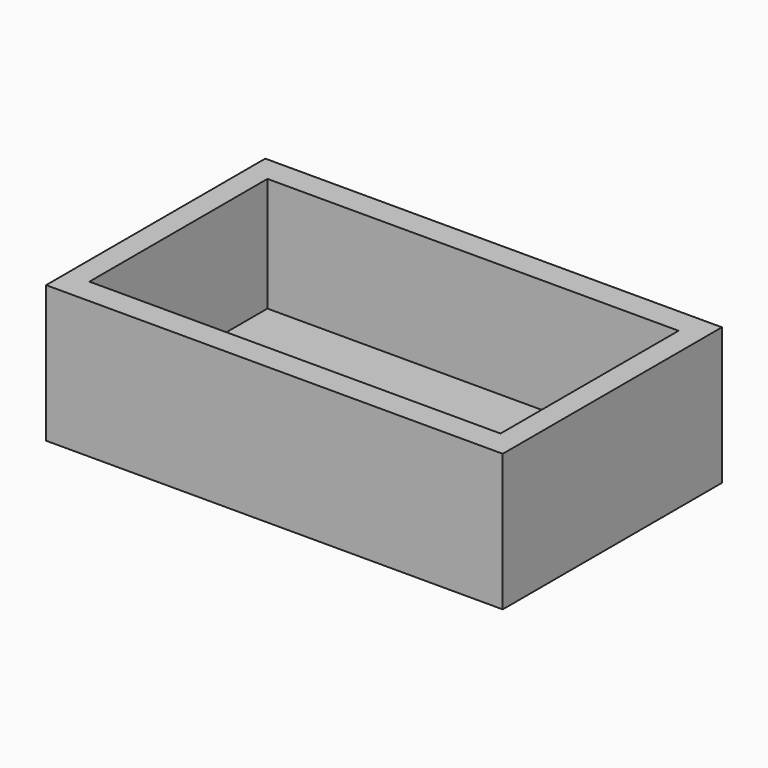
from build123d import *

# Parameters (mm, degrees)
F0_W     = 254
F0_H     = 152.4
F1_DEPTH = 38.1
F2_W     = 228.6844402552
F2_H     = 123.7743124366
F3_DEPTH = 63.5


with BuildPart() as f1:
    # F0 (on Top) → F1 (new body, symmetric)
    with BuildSketch(Plane.XY):
        Rectangle(F0_W, F0_H)
    extrude(amount=F1_DEPTH, both=True)

    # F2 (on face) → F3 (cut)
    with BuildSketch(Plane.XY.offset(38.1)):
        Rectangle(F2_W, F2_H)
        Rectangle(F2_W, F2_H)
    extrude(amount=-F3_DEPTH, mode=Mode.SUBTRACT)


solid = f1.part
